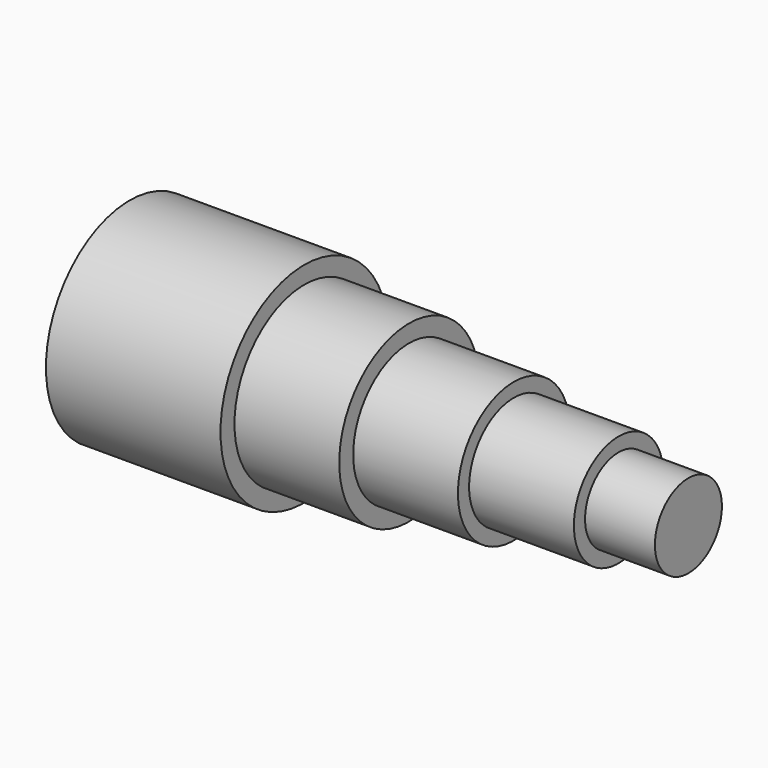
from build123d import *

# Parameters (mm, degrees)
F0_W = 10
F0_H = 6


with BuildPart() as f1:
    # F0 (on Top) → F1 (revolve)
    with BuildSketch(Plane.XY):
        with Locations((32.54032, 5.510082)):
            Rectangle(F0_W, F0_H)
        Polygon((27.54032, 2.510082), (27.54032, 8.510082), (27.54032, 10.510082), (12.54032, 10.510082), (12.54032, 2.510082), align=None)
        Polygon((-2.45968, 2.510082), (12.54032, 2.510082), (12.54032, 10.510082), (12.54032, 12.510082), (-2.45968, 12.510082), align=None)
        Polygon((-17.45968, 2.510082), (-2.45968, 2.510082), (-2.45968, 12.510082), (-2.45968, 15.010082), (-17.45968, 15.010082), align=None)
        Polygon((-42.45968, 2.510082), (-17.45968, 2.510082), (-17.45968, 15.010082), (-17.45968, 17.510082), (-42.45968, 17.510082), (-42.45968, 15.997984), align=None)
    revolve(axis=Axis((20.04032, 2.510082, 0), (1, 0, 0)))


solid = f1.part
